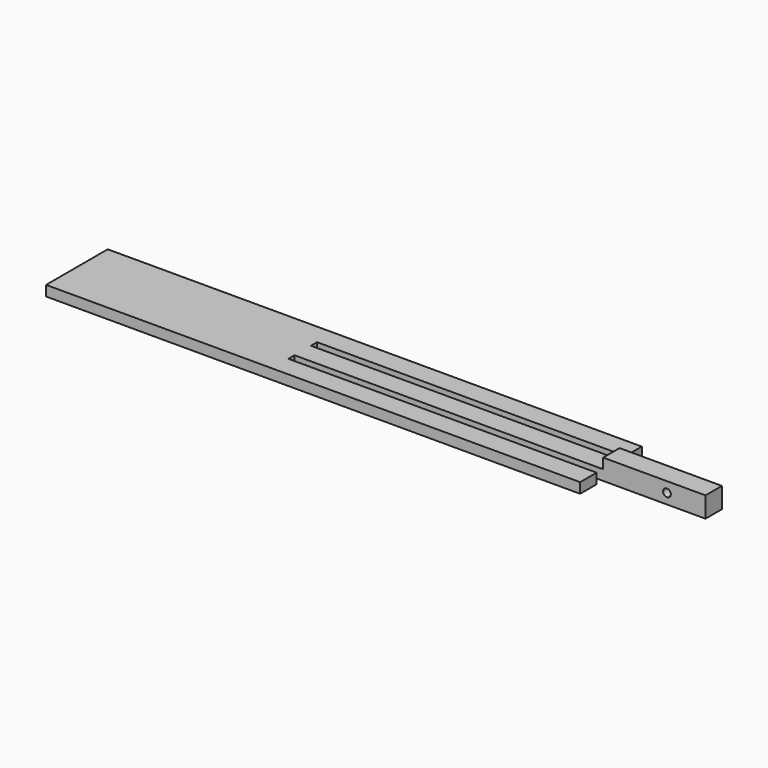
from build123d import *

# Parameters (mm, degrees)
F1_DEPTH = 4
F2_W     = 39.8295831093
F2_H     = 8
F3_DEPTH = 4
F5_DEPTH = 58.8


with BuildPart() as f1:
    # F0 (on Top) → F1 (new body)
    with BuildSketch(Plane.XY):
        Polygon((-123.9547070274, -15), (83.9547070274, -15), (83.9547070274, -7), (-36.0452929726, -7), (-36.0452929726, -4), (123.9547070274, -4), (123.9547070274, 4), (-36.0452929726, 4), (-36.0452929726, 7), (83.9547070274, 7), (83.9547070274, 15), (-123.9547070274, 15), align=None)
    extrude(amount=F1_DEPTH)

    # F2 (on face) → F3 (join)
    with BuildSketch(Plane.XY.offset(4)):
        with Locations((104.0399154727, 0)):
            Rectangle(F2_W, F2_H)
    extrude(amount=F3_DEPTH)

    # F4 (on face) → F5 (cut)
    with BuildSketch(Plane.XZ.offset(4)):
        with BuildLine():
            ThreePointArc((110.4547070274, 4), (110.0153671992, 5.0606601718), (108.9547070274, 5.5))
            Line((108.9547070274, 5.5), (108.9547070274, 2.5))
            ThreePointArc((108.9547070274, 2.5), (110.0153671992, 2.9393398282), (110.4547070274, 4))
        make_face()
        with BuildLine():
            Line((108.9547070274, 2.5), (108.9547070274, 5.5))
            ThreePointArc((108.9547070274, 5.5), (107.4547070274, 4), (108.9547070274, 2.5))
        make_face()
    extrude(amount=-F5_DEPTH, mode=Mode.SUBTRACT)


solid = f1.part
